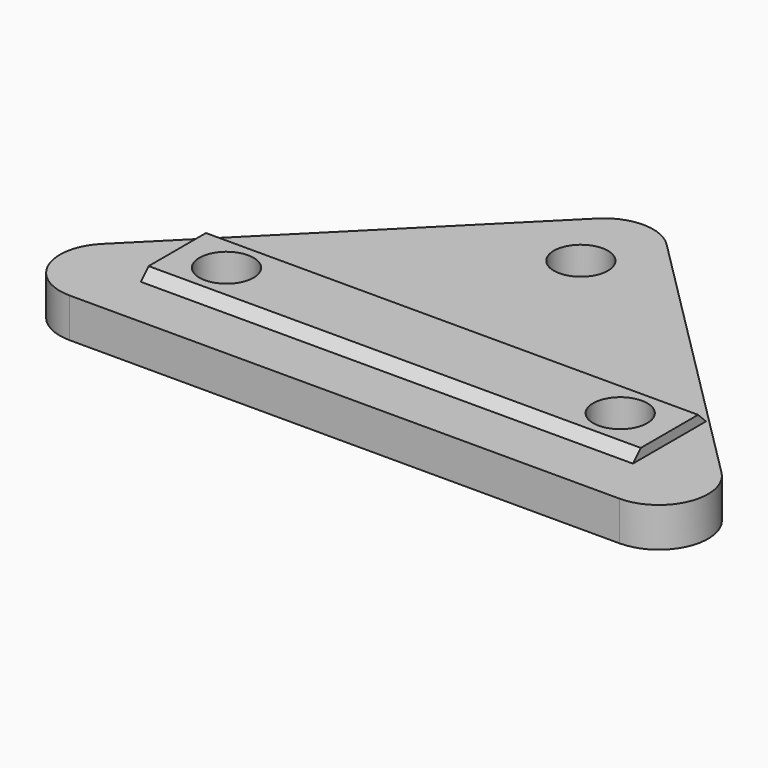
from build123d import *

# Parameters (mm, degrees)
F1_DEPTH      = 4
F3_DEPTH      = 25
F3_DEPTH_BACK = 25
F4_D          = 5.5


with BuildPart() as f1:
    # F0 (on Top) → F1 (new body)
    with BuildSketch(Plane.XY):
        with BuildLine():
            ThreePointArc((3.5355339059, 36.4644660941), (0, 37.9289321881), (-3.5355339059, 36.4644660941))
            Line((-3.5355339059, 36.4644660941), (-31.4644660941, 8.5355339059))
            ThreePointArc((-31.4644660941, 8.5355339059), (-32.5483298507, 3.0865828382), (-27.9289321881, 0))
            Line((-27.9289321881, 0), (27.9289321881, 0))
            ThreePointArc((27.9289321881, 0), (32.5483298507, 3.0865828382), (31.4644660941, 8.5355339059))
            Line((31.4644660941, 8.5355339059), (3.5355339059, 36.4644660941))
        make_face()
    extrude(amount=F1_DEPTH)

    # F2 (on Right) → F3 (join, two sides)
    with BuildSketch(Plane.YZ) as f3_sk:
        Polygon((5.36, 4), (14.64, 4), (13.64, 5), (6.36, 5), align=None)
    extrude(amount=F3_DEPTH)
    extrude(f3_sk.sketch, amount=-F3_DEPTH_BACK)

    # F4 (through all)
    with Locations(Plane(origin=(0, 0, 0), x_dir=(1, 0, 0), z_dir=(0, 0, -1))):
        with Locations((-20, -10), (0, -30), (20, -10)):
            Hole(F4_D / 2)


solid = f1.part
